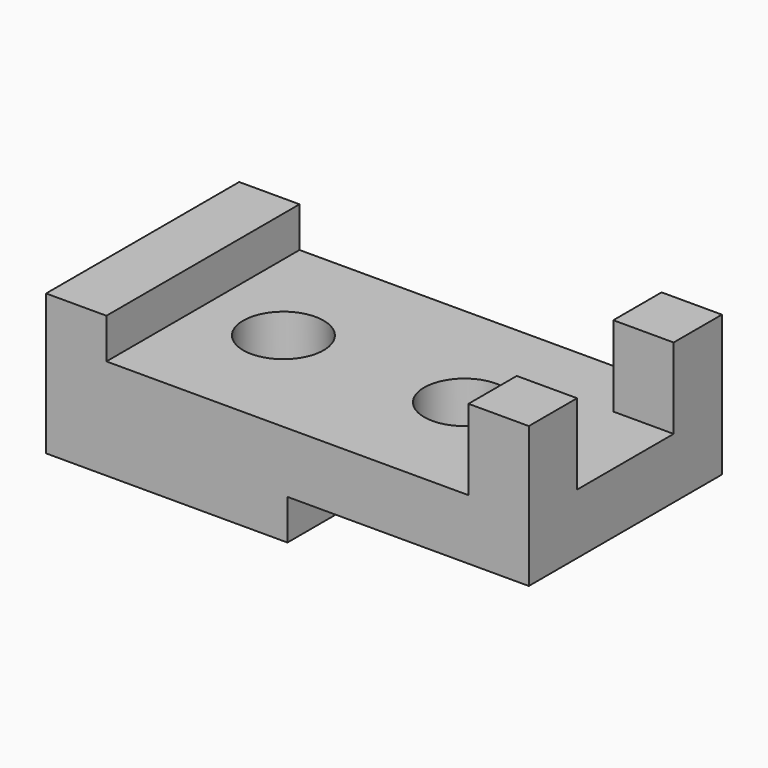
from build123d import *

# Parameters (mm, degrees)
F1_DEPTH = 30
F2_W     = 30
F2_H     = 20
F3_DEPTH = 25
F5_D     = 20


with BuildPart() as f1:
    # F0 (on Front) → F1 (new body, symmetric)
    with BuildSketch(Plane.XZ):
        Polygon((0, 35), (0, 0), (60, 0), (60, 10), (120, 10), (120, 45), (105, 45), (105, 25), (15, 25), (15, 35), align=None)
    extrude(amount=F1_DEPTH, both=True)

    # F2 (on face) → F3 (cut)
    with BuildSketch(Plane.YZ.offset(120)):
        with Locations((0, 35)):
            Rectangle(F2_W, F2_H)
    extrude(amount=-F3_DEPTH, mode=Mode.SUBTRACT)

    # F5 (through all)
    with Locations(Plane.XY.offset(25)):
        with Locations((35, 0), (80, 0)):
            Hole(F5_D / 2)


solid = f1.part
